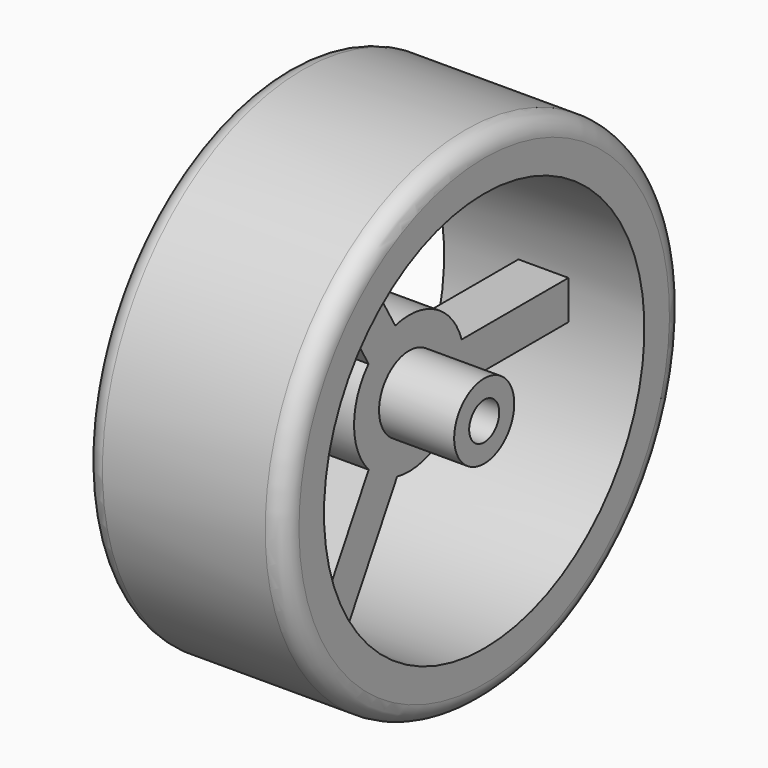
from build123d import *

# Parameters (mm, degrees)
F0_W     = 4
F0_H     = 1.5
F0_W_2   = 6
F0_H_2   = 2.5
F3_DEPTH = 4
F4_R     = 1.5666851265
F5_DEPTH = 1


with BuildPart() as f1:
    # F0 (on Front) → F1 (revolve)
    with BuildSketch(Plane.XZ):
        with BuildLine():
            Line((0, 2.5), (0, 0))
            Line((0, 0), (6, 0))
            Line((6, 0), (10, 0))
            Line((10, 0), (16, 0))
            Line((16, 0), (16, 2.5))
            ThreePointArc((16, 2.5), (15.5606601718, 3.5606601718), (14.5, 4))
            Line((14.5, 4), (1.5, 4))
            ThreePointArc((1.5, 4), (0.4393398282, 3.5606601718), (0, 2.5))
        make_face()
    revolve(axis=Axis((8, 0, -16), (1, 0, 0)))



with BuildPart() as f1b:
    # F0 (on Front) → F1, piece 2 (revolve)
    with BuildSketch(Plane.XZ):
        with Locations((8, -13.75)):
            Rectangle(F0_W, F0_H)
        with Locations((3, -13.75)):
            Rectangle(F0_W_2, F0_H)
        with Locations((8, -11.75)):
            Rectangle(F0_W, F0_H_2)
        with Locations((13, -13.75)):
            Rectangle(F0_W_2, F0_H)
    revolve(axis=Axis((8, 0, -16), (1, 0, 0)))


with BuildPart() as f1_1:
    add(f1.part)

    add(f1b.part)  # F3 merges F1b
    # F2 (on face) → F3 (join)
    with BuildSketch(Plane(origin=(6, 0, 0), x_dir=(0, -1, 0), z_dir=(-1, 0, 0))):
        with BuildLine():
            Line((6.6908253366, -1.4861596642), (1.3844372123, -10.6770935002))
            ThreePointArc((1.3844372123, -10.6770935002), (2.8339033039, -11.2862974145), (4.051778006, -12.2807131073))
            Line((4.051778006, -12.2807131073), (9.3857185908, -3.0420570099))
            Line((9.3857185908, -3.0420570099), (6.6908253366, -1.4861596642))
        make_face()
        with BuildLine():
            ThreePointArc((4.037854872, -19.7343979479), (2.741097896, -20.7682682731), (1.1951079301, -21.36858613))
            Line((1.1951079301, -21.36858613), (6.5290485149, -30.6072422274))
            Line((6.5290485149, -30.6072422274), (9.3687329614, -28.9677496478))
            Line((9.3687329614, -28.9677496478), (4.037854872, -19.7343979479))
        make_face()
        with BuildLine():
            ThreePointArc((-5.3019908569, -17.4624954541), (-5.4991378368, -15.9026190397), (-5.246885936, -14.3507007627))
            Line((-5.246885936, -14.3507007627), (-15.9147671056, -14.3507007627))
            Line((-15.9147671056, -14.3507007627), (-15.9147671056, -17.4624954541))
            Line((-15.9147671056, -17.4624954541), (-5.3019908569, -17.4624954541))
        make_face()
    extrude(amount=-F3_DEPTH)

    # F4 (on Right) → F5 (join)
    with BuildSketch(Plane.YZ):
        with Locations((0, -15.8851090819)):
            Circle(F4_R)
    extrude(amount=F5_DEPTH)


solid = f1_1.part
